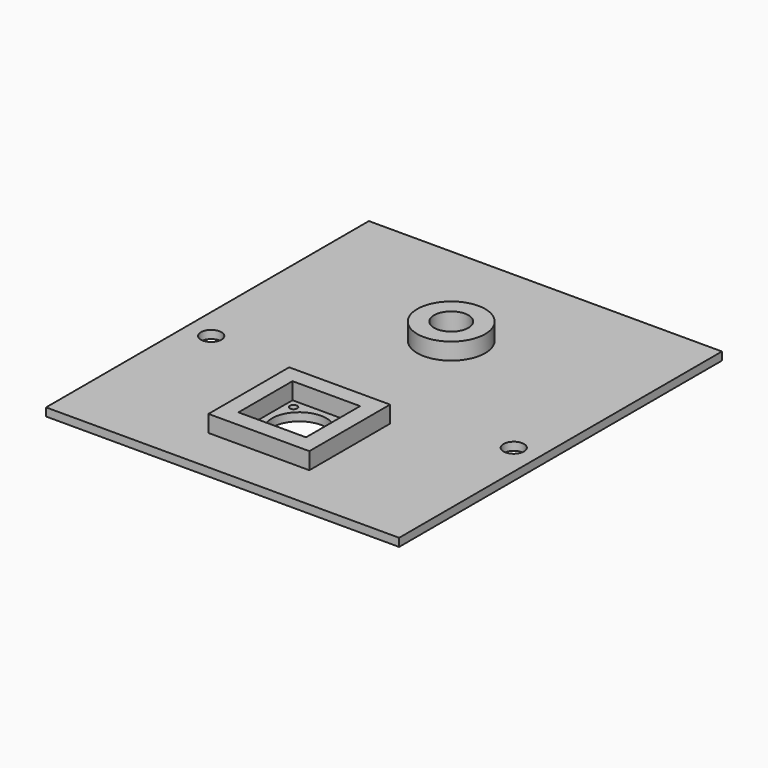
from build123d import *

# Parameters (mm, degrees)
SKETCH_W        = 105
SKETCH_H        = 120
PAD_DEPTH       = 2.4
SKETCH001_R     = 8.1
SKETCH001_R_2   = 1.1
POCKET_DEPTH    = 5
SKETCH002_W     = 30
SKETCH002_H     = 30
PAD001_DEPTH    = 5
SKETCH003_W     = 20.1
SKETCH003_H     = 20.1
POCKET001_DEPTH = 5
SKETCH004_R     = 10.1
PAD002_DEPTH    = 5
SKETCH005_R     = 5.1
POCKET002_DEPTH = 7.401
SKETCH007_R     = 3.05
POCKET003_DEPTH = 5


with BuildPart() as part:
    # Sketch → Pad (new body)
    with BuildSketch(Plane.XY):
        with Locations((0, -10)):
            Rectangle(SKETCH_W, SKETCH_H)
    extrude(amount=PAD_DEPTH)

    # Sketch001 → Pocket (cut)
    with BuildSketch(Plane.XY.offset(2.4)):
        with Locations((0, -41.5)):
            Circle(SKETCH001_R)
        with Locations((-7.7, -34)):
            Circle(SKETCH001_R_2)
        with Locations((7.7, -34)):
            Circle(SKETCH001_R_2)
        with Locations((-7.7, -49.4)):
            Circle(SKETCH001_R_2)
        with Locations((7.7, -49.4)):
            Circle(SKETCH001_R_2)
    extrude(amount=-POCKET_DEPTH, mode=Mode.SUBTRACT)

    # Sketch002 → Pad001 (new body)
    with BuildSketch(Plane.XY.offset(2.4)):
        with Locations((0, -41.5)):
            Rectangle(SKETCH002_W, SKETCH002_H)
    extrude(amount=PAD001_DEPTH)

    # Sketch003 → Pocket001 (cut)
    with BuildSketch(Plane.XY.offset(7.4)):
        with Locations((0, -41.5)):
            Rectangle(SKETCH003_W, SKETCH003_H)
    extrude(amount=-POCKET001_DEPTH, mode=Mode.SUBTRACT)

    # Sketch004 → Pad002 (new body)
    with BuildSketch(Plane.XY.offset(2.4)):
        with Locations((0, 15)):
            Circle(SKETCH004_R)
    extrude(amount=PAD002_DEPTH)

    # Sketch005 → Pocket002 (cut, through all)
    with BuildSketch(Plane.XY.offset(7.4)):
        with Locations((0, 15)):
            Circle(SKETCH005_R)
    extrude(amount=-POCKET002_DEPTH, mode=Mode.SUBTRACT)

    # Sketch007 → Pocket003 (cut)
    with BuildSketch(Plane.XY.offset(2.4)):
        with Locations((-45, -18)):
            Circle(SKETCH007_R)
        with Locations((45, -18)):
            Circle(SKETCH007_R)
    extrude(amount=-POCKET003_DEPTH, mode=Mode.SUBTRACT)


solid = part.part
